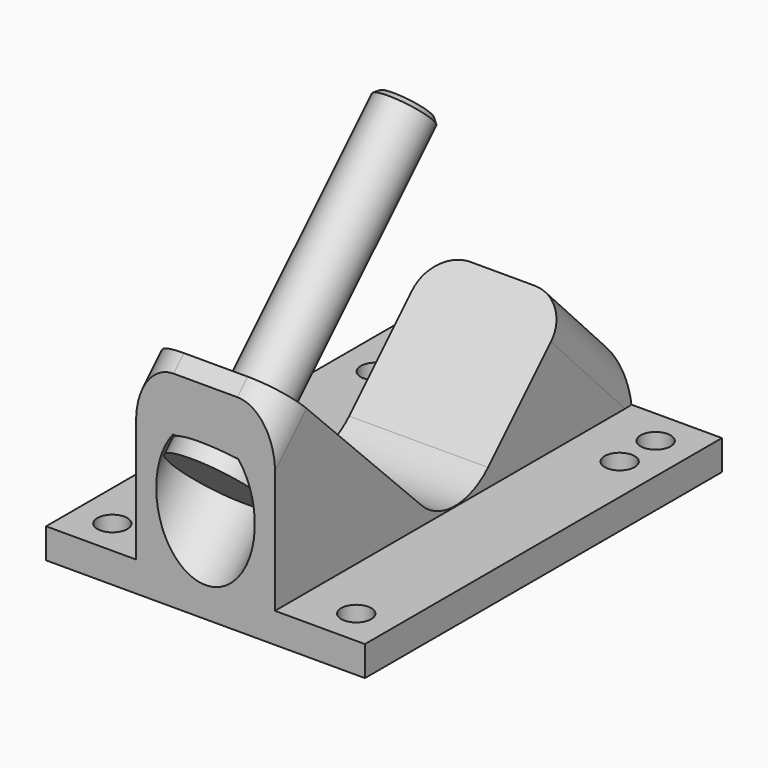
from build123d import *

# Parameters (mm, degrees)
F1_DEPTH = 27.0002
F2_R     = 9.906
F3_W     = 75.7111017068
F3_H     = 31.9594877579
F4_DEPTH = 15.24
F5_R     = 2.54
F6_DEPTH = 5.081
F8_R     = 6.35
F13_SIZE = 0.762


with BuildPart() as f1:
    # F0 (on Right) → F1 (new body)
    with BuildSketch(Plane.YZ):
        Polygon((0, 34.8605122421), (0, 0), (75.565, 0), (75.565, 12.7), (62.9056579521, 25.9241212257), (38.1, 1.1184632736), (2.1789755157, 37.0394877579), align=None)
    extrude(amount=F1_DEPTH)

    # F2
    f2_edges = [f1.edges().sort_by_distance(p)[0] for p in [
        (13.5001, 38.1, 1.118463),
    ]]
    fillet(f2_edges, radius=F2_R)

    # F3 (on face) → F4 (cut)
    with BuildSketch(Plane.YZ.offset(27.0002)):
        with Locations((37.8555508534, 21.0597438789)):
            Rectangle(F3_W, F3_H)
    extrude(amount=-F4_DEPTH, mode=Mode.SUBTRACT)

    # F5 (on face) → F6 (cut, through all)
    with BuildSketch(Plane.XY.offset(5.08)):
        with Locations((20.6502, 69.469)):
            Circle(F5_R)
        with Locations((20.6502, 61.849)):
            Circle(F5_R)
        with Locations((20.6502, 6.096)):
            Circle(F5_R)
    extrude(amount=-F6_DEPTH, mode=Mode.SUBTRACT)

    # F7: F1 across face


with BuildPart() as f1_1:
    add(f1.part)
    add(f1.part.mirror(Plane.YZ))

    # F8
    f8_edges = [f1_1.edges().sort_by_distance(p)[0] for p in [
        (-11.7602, 69.235329, 19.312061),
        (11.7602, 69.235329, 19.312061),
        (-11.7602, 1.089488, 35.95),
        (11.7602, 1.089488, 35.95),
    ]]
    fillet(f8_edges, radius=F8_R)

    # F9 (on Right) → F10 (revolve, cut)
    with BuildSketch(Plane.YZ):
        Polygon((-8.45, 8.45), (11.1592316368, 28.0592316368), (7.7916355914, 31.4268276822), (1.0564435006, 24.6916355914), (-1.4759887256, 27.2240678175), (-14.3500282715, 14.3500282715), align=None)
    revolve(axis=Axis((0, 17.8944237276, 34.7944237276), (0, 0.7071067812, 0.7071067812)), mode=Mode.SUBTRACT)


with BuildPart() as f12:
    # F11 (on Right) → F12 (revolve)
    with BuildSketch(Plane.YZ):
        Polygon((7.7916355914, 31.4268276822), (1.0564435006, 24.6916355914), (-1.1886205297, 26.9366996217), (-2.9846717539, 25.1406483974), (2.6279883218, 19.5279883218), (42.5901280605, 59.4901280605), (39.2225320151, 62.8577241059), align=None)
    revolve(axis=Axis((0, 22.6090581912, 39.5090581912), (0, 0.7071067812, 0.7071067812)))

    # F13
    f13_edges = [f12.edges().sort_by_distance(p)[0] for p in [
        (0, 45.957724, 56.122532),
    ]]
    chamfer(f13_edges, length=F13_SIZE)


solid = Compound([f1_1.part, f12.part])
